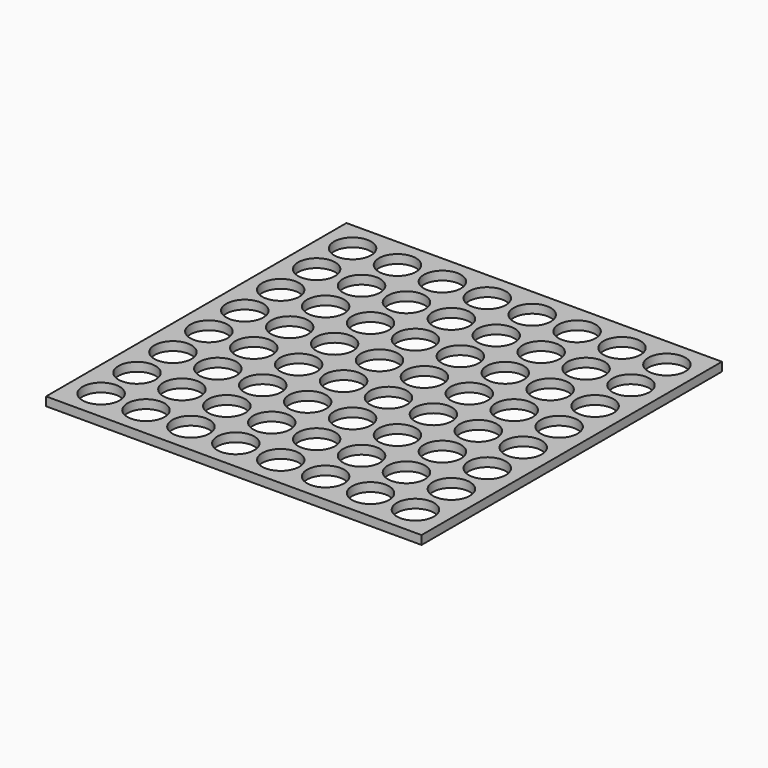
from build123d import *

# Parameters (mm, degrees)
F0_W     = 546.1
F0_H     = 546.1
F1_DEPTH = 12.7
F2_R     = 26.9875
F3_DEPTH = 12.7


with BuildPart() as f1:
    # F0 (on Top) → F1 (new body)
    with BuildSketch(Plane.XY):
        Rectangle(F0_W, F0_H)
    extrude(amount=F1_DEPTH)

    # F2 (on face) → F3 (cut, symmetric)
    with BuildSketch(Plane.XY.offset(12.7)):
        with Locations((-228.6, 228.6)):
            Circle(F2_R)
        with Locations((-228.6, 163.285714)):
            Circle(F2_R)
        with Locations((-228.6, 97.971429)):
            Circle(F2_R)
        with Locations((-228.6, 32.657143)):
            Circle(F2_R)
        with Locations((-228.6, -32.657143)):
            Circle(F2_R)
        with Locations((-228.6, -97.971429)):
            Circle(F2_R)
        with Locations((-228.6, -163.285714)):
            Circle(F2_R)
        with Locations((-228.6, -228.6)):
            Circle(F2_R)
        with Locations((-163.285714, 228.6)):
            Circle(F2_R)
        with Locations((-163.285714, 163.285714)):
            Circle(F2_R)
        with Locations((-163.285714, 97.971429)):
            Circle(F2_R)
        with Locations((-163.285714, 32.657143)):
            Circle(F2_R)
        with Locations((-163.285714, -32.657143)):
            Circle(F2_R)
        with Locations((-163.285714, -97.971429)):
            Circle(F2_R)
        with Locations((-163.285714, -163.285714)):
            Circle(F2_R)
        with Locations((-163.285714, -228.6)):
            Circle(F2_R)
        with Locations((-97.971429, 228.6)):
            Circle(F2_R)
        with Locations((-97.971429, 163.285714)):
            Circle(F2_R)
        with Locations((-97.971429, 97.971429)):
            Circle(F2_R)
        with Locations((-97.971429, 32.657143)):
            Circle(F2_R)
        with Locations((-97.971429, -32.657143)):
            Circle(F2_R)
        with Locations((-97.971429, -97.971429)):
            Circle(F2_R)
        with Locations((-97.971429, -163.285714)):
            Circle(F2_R)
        with Locations((-97.971429, -228.6)):
            Circle(F2_R)
        with Locations((-32.657143, 228.6)):
            Circle(F2_R)
        with Locations((-32.657143, 163.285714)):
            Circle(F2_R)
        with Locations((-32.657143, 97.971429)):
            Circle(F2_R)
        with Locations((-32.657143, 32.657143)):
            Circle(F2_R)
        with Locations((-32.657143, -32.657143)):
            Circle(F2_R)
        with Locations((-32.657143, -97.971429)):
            Circle(F2_R)
        with Locations((-32.657143, -163.285714)):
            Circle(F2_R)
        with Locations((-32.657143, -228.6)):
            Circle(F2_R)
        with Locations((32.657143, 228.6)):
            Circle(F2_R)
        with Locations((32.657143, 163.285714)):
            Circle(F2_R)
        with Locations((32.657143, 97.971429)):
            Circle(F2_R)
        with Locations((32.657143, 32.657143)):
            Circle(F2_R)
        with Locations((32.657143, -32.657143)):
            Circle(F2_R)
        with Locations((32.657143, -97.971429)):
            Circle(F2_R)
        with Locations((32.657143, -163.285714)):
            Circle(F2_R)
        with Locations((32.657143, -228.6)):
            Circle(F2_R)
        with Locations((97.971429, 228.6)):
            Circle(F2_R)
        with Locations((97.971429, 163.285714)):
            Circle(F2_R)
        with Locations((97.971429, 97.971429)):
            Circle(F2_R)
        with Locations((97.971429, 32.657143)):
            Circle(F2_R)
        with Locations((97.971429, -32.657143)):
            Circle(F2_R)
        with Locations((97.971429, -97.971429)):
            Circle(F2_R)
        with Locations((97.971429, -163.285714)):
            Circle(F2_R)
        with Locations((97.971429, -228.6)):
            Circle(F2_R)
        with Locations((163.285714, 228.6)):
            Circle(F2_R)
        with Locations((163.285714, 163.285714)):
            Circle(F2_R)
        with Locations((163.285714, 97.971429)):
            Circle(F2_R)
        with Locations((163.285714, 32.657143)):
            Circle(F2_R)
        with Locations((163.285714, -32.657143)):
            Circle(F2_R)
        with Locations((163.285714, -97.971429)):
            Circle(F2_R)
        with Locations((163.285714, -163.285714)):
            Circle(F2_R)
        with Locations((163.285714, -228.6)):
            Circle(F2_R)
        with Locations((228.6, 228.6)):
            Circle(F2_R)
        with Locations((228.6, 163.285714)):
            Circle(F2_R)
        with Locations((228.6, 97.971429)):
            Circle(F2_R)
        with Locations((228.6, 32.657143)):
            Circle(F2_R)
        with Locations((228.6, -32.657143)):
            Circle(F2_R)
        with Locations((228.6, -97.971429)):
            Circle(F2_R)
        with Locations((228.6, -163.285714)):
            Circle(F2_R)
        with Locations((228.6, -228.6)):
            Circle(F2_R)
    extrude(amount=F3_DEPTH, both=True, mode=Mode.SUBTRACT)


solid = f1.part
